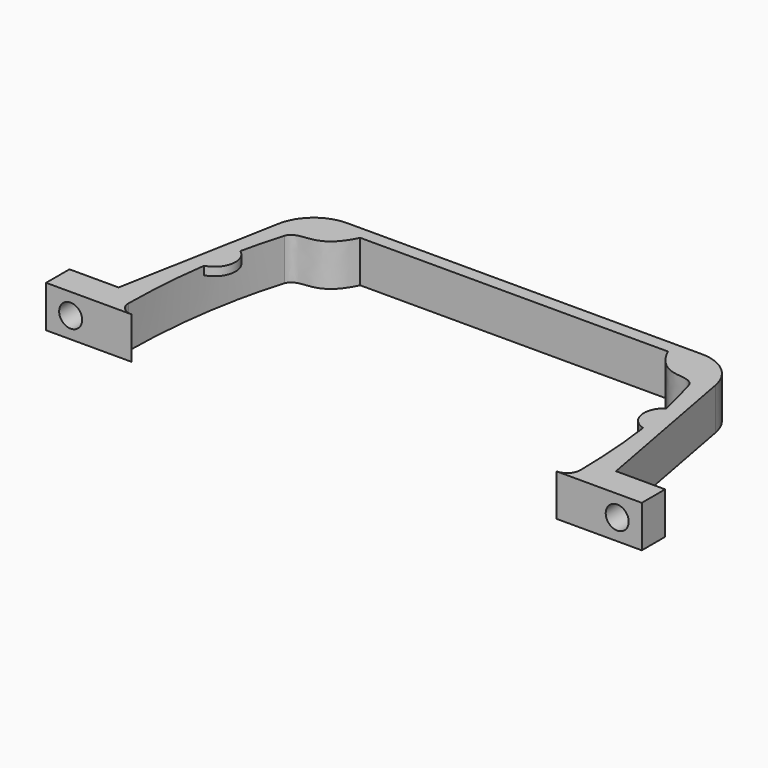
from build123d import *

# Parameters (mm, degrees)
PAD_DEPTH    = 10
POCKET_DEPTH = 2
PAD001_DEPTH = 10
SKETCH002_R  = 2.75
HOLE_DEPTH   = 186.769494
FILLET_R     = 10


with BuildPart() as body:
    # Sketch → Pad (new body)
    with BuildSketch(Plane.XY):
        with BuildLine():
            ThreePointArc((50.827684, 0), (53.07085, 0.92915), (54, 3.172316))
            add(Edge.make_bspline(
                [(54, 3.172316), (53.770463, 24.754659), (48.332207, 42.658529)],
                knots=[0, 0, 0, 1, 1, 1], degree=2))
            add(Edge.make_bspline(
                [(48.332207, 42.658529), (47.508229, 44.694932), (42.952807, 43.870954), (38.691662, 46.837275), (36.784741, 50.827684)],
                knots=[0, 0, 0, 0, 0.5, 1, 1, 1, 1], degree=3))
            Line((36.784741, 50.827684), (0, 50.827684))
            Line((0, 50.827684), (0, 0))
            Line((0, 0), (50.827684, 0))
        make_face()
    pad = extrude(amount=PAD_DEPTH)

    # Mirrored: Pad across Sketch V_Axis
    add(pad.mirror(Plane(origin=(0, 0, 0), x_dir=(0, 0, 1), z_dir=(1, 0, 0))))

    # Sketch003 (on Face13 of Cut) → Pocket (cut)
    with BuildSketch(Plane.XY.offset(10)):
        with BuildLine():
            ThreePointArc((53.812202, 33.623601), (48.812202, 28.623601), (53.812202, 23.623601))
            Line((53.812202, 23.623601), (53.812202, 33.623601))
        make_face()
    pocket = extrude(amount=-POCKET_DEPTH, mode=Mode.SUBTRACT)

    # Mirrored003: Pocket across Sketch003 V_Axis
    add(pocket.mirror(Plane(origin=(0, 0, 10), x_dir=(0, 0, 1), z_dir=(1, 0, 0))), mode=Mode.SUBTRACT)


with BuildPart() as cut:
    # Sketch001 → Pad001 (new body)
    with BuildSketch(Plane.XY):
        Polygon((0, 0), (71.199806, 0), (71.199806, 6.985645), (59.457661, 6.985645), (50.704418, 53.954201), (0, 53.954201), align=None)
    pad001 = extrude(amount=PAD001_DEPTH)

    # Sketch002 (on Face3 of Pad001) → Hole (cut, through all)
    with BuildSketch(Plane(origin=(0, 6.985645, 0), x_dir=(-1, 0, 0), z_dir=(0, 1, 0))):
        with Locations((-65.328733, 5)):
            Circle(SKETCH002_R)
    hole = extrude(amount=-HOLE_DEPTH, mode=Mode.SUBTRACT)

    # Mirrored001: Pad001 across Sketch001 V_Axis
    add(pad001.mirror(Plane(origin=(0, 0, 0), x_dir=(0, 0, 1), z_dir=(1, 0, 0))))

    # Mirrored002: Hole across Sketch002 V_Axis
    add(hole.mirror(Plane(origin=(0, 6.985645, 0), x_dir=(0, 1, 0), z_dir=(-1, 0, 0))), mode=Mode.SUBTRACT)

    # Fillet
    fillet_edges = [cut.edges().sort_by_distance(p)[0] for p in [
        (50.704418, 53.954201, 5),
        (-50.704418, 53.954201, 5),
    ]]
    fillet(fillet_edges, radius=FILLET_R)

    # Cut: cut Body
    add(body.part, mode=Mode.SUBTRACT)


solid = cut.part
